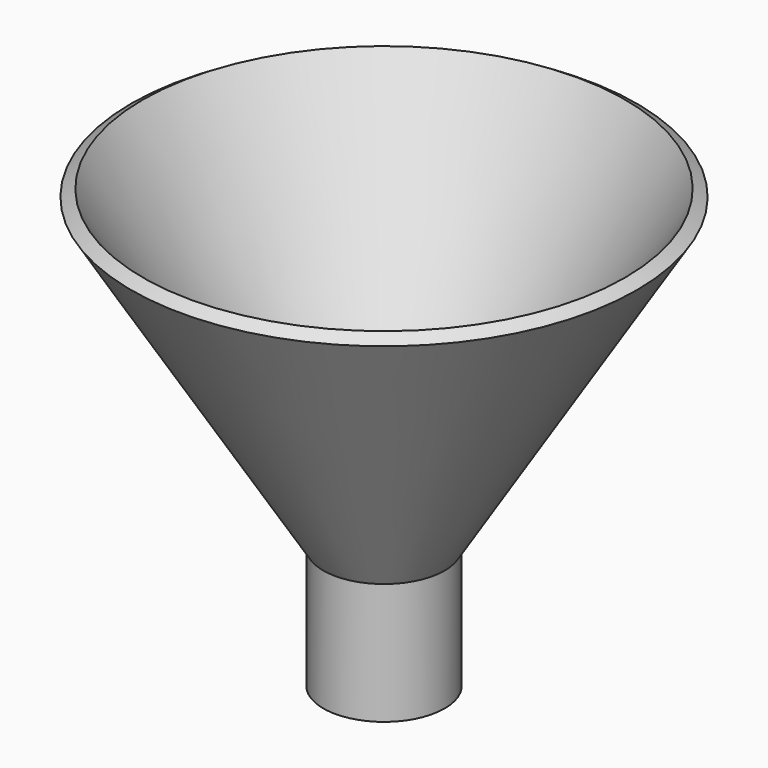
from build123d import *

# Parameters (mm, degrees)
F2_R     = 7.582506
F3_DEPTH = 25.4
F4_R     = 8.897852
F5_DEPTH = 25.4


with BuildPart() as f1:
    # F0 (on Front) → F1 (revolve)
    with BuildSketch(Plane.XZ):
        Polygon((0, -25.4), (0, 0), (40.193673, 64.737228), (37.751768, 66.253343), (-3.383222, 0), (-12.7, 0), (-12.7, -25.4), align=None)
    revolve(axis=Axis((-12.7, 0, -12.7), (0, 0, 1)))

    # F2 (on face) → F3 (cut)
    with BuildSketch(Plane.XY):
        with Locations((-12.7, 0)):
            Circle(F2_R)
    extrude(amount=-F3_DEPTH, mode=Mode.SUBTRACT)

    # F4 (on Top) → F5 (cut)
    with BuildSketch(Plane.XY):
        with Locations((-12.889439, 0)):
            Circle(F4_R)
    extrude(amount=-F5_DEPTH, mode=Mode.SUBTRACT)


solid = f1.part
